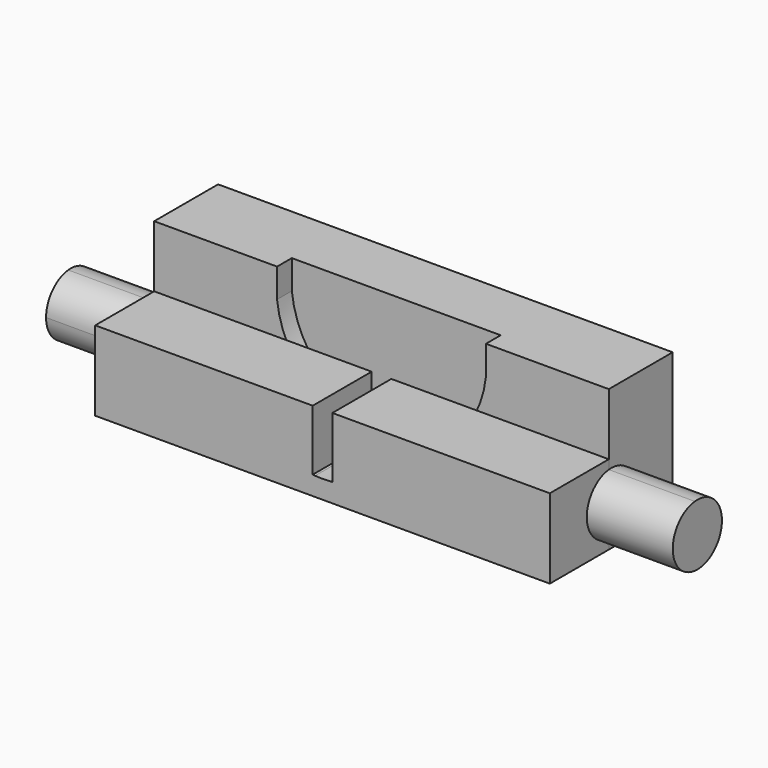
from build123d import *

# Parameters (mm, degrees)
F1_DEPTH = 5
F2_DEPTH = 6.5
F4_DEPTH = 6
F6_DEPTH = 7
F8_DEPTH = 7


with BuildPart() as f1:
    # F0 (on Front) → F1 (new body)
    with BuildSketch(Plane.XZ):
        with BuildLine():
            Line((-8.5, 2.3556), (-8.5, 0))
            ThreePointArc((-8.5, 0), (0, -7.6444), (8.5, 0))
            Line((8.5, 0), (8.5, 2.3556))
            Line((8.5, 2.3556), (-8.5, 2.3556))
        make_face()
    extrude(amount=F1_DEPTH)

    # F0 (on Front) → F2 (join)
    with BuildSketch(Plane.XZ):
        with BuildLine():
            ThreePointArc((8.5, 0), (0, -7.6444), (-8.5, 0))
            Line((-8.5, 0), (-8.5, 2.3556))
            Line((-8.5, 2.3556), (-18.5, 2.3556))
            Line((-18.5, 2.3556), (-18.5, -9.1444))
            Line((-18.5, -9.1444), (18.5, -9.1444))
            Line((18.5, -9.1444), (18.5, 2.3556))
            Line((18.5, 2.3556), (8.5, 2.3556))
            Line((8.5, 2.3556), (8.5, 0))
        make_face()
    extrude(amount=F2_DEPTH)


with BuildPart() as f4:
    # F3 (on face) → F4 (new body)
    with BuildSketch(Plane.XZ.offset(6.5)):
        with BuildLine():
            Line((-7.765819, -2.6684), (-18.5, -2.6684))
            Line((-18.5, -2.6684), (-18.5, -9.1444))
            Line((-18.5, -9.1444), (18.5, -9.1444))
            Line((18.5, -9.1444), (18.5, -2.6684))
            Line((18.5, -2.6684), (7.765819, -2.6684))
            ThreePointArc((7.765819, -2.6684), (4.94373, -6.06974), (0.8, -7.606881))
            Line((0.8, -7.606881), (0.8, -7.623304))
            Line((0.8, -7.623304), (0.600173, -7.623304))
            ThreePointArc((0.600173, -7.623304), (0, -7.6444), (-0.600173, -7.623304))
            ThreePointArc((-0.600173, -7.623304), (-0.700135, -7.615679), (-0.8, -7.606881))
            ThreePointArc((-0.8, -7.606881), (-4.94373, -6.06974), (-7.765819, -2.6684))
        make_face()
        with BuildLine():
            Line((-0.8, -2.6684), (-7.765819, -2.6684))
            ThreePointArc((-7.765819, -2.6684), (-4.94373, -6.06974), (-0.8, -7.606881))
            Line((-0.8, -7.606881), (-0.8, -2.6684))
        make_face()
        with BuildLine():
            ThreePointArc((0.8, -7.606881), (4.94373, -6.06974), (7.765819, -2.6684))
            Line((7.765819, -2.6684), (0.8, -2.6684))
            Line((0.8, -2.6684), (0.8, -7.606881))
        make_face()
    extrude(amount=F4_DEPTH)


with BuildPart() as f6:
    # F5 (on face) → F6 (new body)
    with BuildSketch(Plane.YZ.offset(18.5)):
        with BuildLine():
            Line((-6.5, -8.385049), (-6.5, -3.412058))
            ThreePointArc((-6.5, -3.412058), (-8.7405, -5.898553), (-6.5, -8.385049))
        make_face()
        with BuildLine():
            ThreePointArc((-6.5, -8.385049), (-4.566993, -7.755803), (-3.7405, -5.898553))
            ThreePointArc((-3.7405, -5.898553), (-4.566993, -4.041304), (-6.5, -3.412058))
            Line((-6.5, -3.412058), (-6.5, -8.385049))
        make_face()
    extrude(amount=F6_DEPTH)


with BuildPart() as f8:
    # F7 (on face) → F8 (new body)
    with BuildSketch(Plane(origin=(-18.5, 0, 0), x_dir=(0, -1, 0), z_dir=(-1, 0, 0))):
        with BuildLine():
            Line((6.5, -8.393869), (6.5, -3.418931))
            ThreePointArc((6.5, -3.418931), (3.75, -5.9064), (6.5, -8.393869))
        make_face()
        with BuildLine():
            ThreePointArc((6.5, -8.393869), (8.10405, -7.583451), (8.75, -5.9064))
            ThreePointArc((8.75, -5.9064), (8.10405, -4.229349), (6.5, -3.418931))
            Line((6.5, -3.418931), (6.5, -8.393869))
        make_face()
    extrude(amount=F8_DEPTH)


solid = Compound([f1.part, f4.part, f6.part, f8.part])
